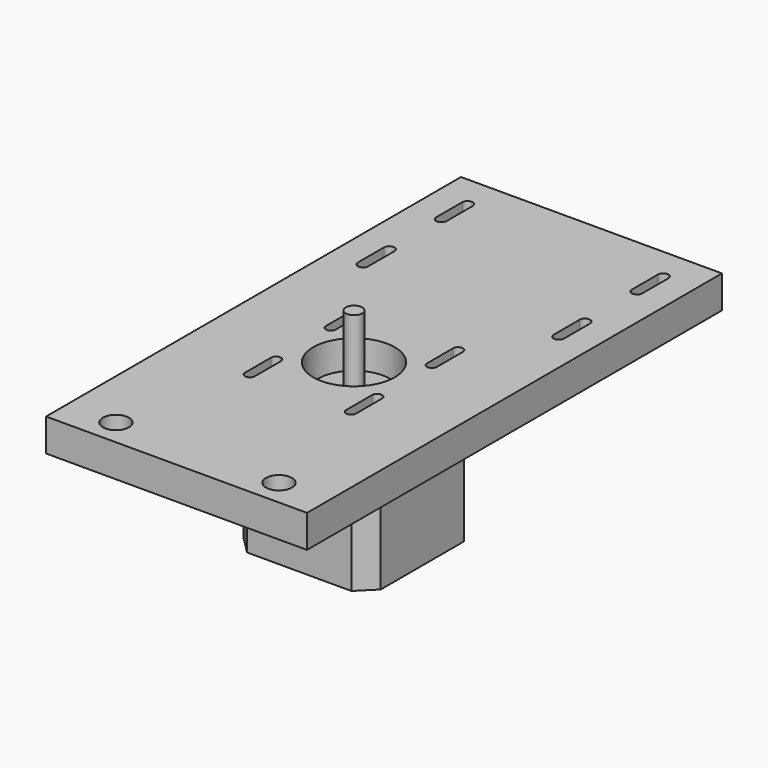
from build123d import *

# Parameters (mm, degrees)
F0_W      = 42
F0_H      = 42
F1_DEPTH  = 38
F2_SIZE   = 5
F3_R      = 11
F4_DEPTH  = 2
F5_R      = 2.5
F6_DEPTH  = 22
F7_R      = 1.5
F8_DEPTH  = 25
F9_W      = 80
F9_H      = 159
F9_R      = 4
F9_R_2    = 12.5
F10_DEPTH = 10


with BuildPart() as f1:
    # F0 (on Top) → F1 (new body)
    with BuildSketch(Plane.XY):
        with Locations((21, 21)):
            Rectangle(F0_W, F0_H)
    extrude(amount=F1_DEPTH)

    # F2
    f2_edges = [f1.edges().sort_by_distance(p)[0] for p in [
        (0, 0, 19),
        (0, 42, 19),
        (42, 0, 19),
        (42, 42, 19),
    ]]
    chamfer(f2_edges, length=F2_SIZE)

    # F3 (on face) → F4 (join)
    with BuildSketch(Plane.XY.offset(38)):
        with Locations((21, 21)):
            Circle(F3_R)
    extrude(amount=F4_DEPTH)

    # F5 (on face) → F6 (join)
    with BuildSketch(Plane.XY.offset(40)):
        with Locations((21, 21)):
            Circle(F5_R)
    extrude(amount=F6_DEPTH)

    # F7 (on face) → F8 (cut)
    with BuildSketch(Plane.XY.offset(38)):
        with Locations((5.5, 36.5)):
            Circle(F7_R)
        with Locations((5.5, 5.5)):
            Circle(F7_R)
        with Locations((36.5, 36.5)):
            Circle(F7_R)
        with Locations((36.5, 5.5)):
            Circle(F7_R)
    extrude(amount=-F8_DEPTH, mode=Mode.SUBTRACT)


with BuildPart() as f10:
    # F9 (on face) → F10 (new body)
    with BuildSketch(Plane.XY.offset(38)):
        with Locations((21, 32.5)):
            Rectangle(F9_W, F9_H)
        with Locations((-4, -39)):
            Circle(F9_R, mode=Mode.SUBTRACT)
        with BuildLine():
            ThreePointArc((7, 0.5), (5.5, -1), (4, 0.5))
            Line((4, 0.5), (4, 10.5))
            ThreePointArc((4, 10.5), (5.5, 12), (7, 10.5))
            Line((7, 10.5), (7, 0.5))
        make_face(mode=Mode.SUBTRACT)
        with Locations((46, -39)):
            Circle(F9_R, mode=Mode.SUBTRACT)
        with BuildLine():
            Line((38, 10.5), (38, 0.5))
            ThreePointArc((38, 0.5), (36.5, -1), (35, 0.5))
            Line((35, 0.5), (35, 10.5))
            ThreePointArc((35, 10.5), (36.5, 12), (38, 10.5))
        make_face(mode=Mode.SUBTRACT)
        with Locations((21, 21)):
            Circle(F9_R_2, mode=Mode.SUBTRACT)
        with BuildLine():
            ThreePointArc((-10.59, 72), (-9, 73.59), (-7.41, 72))
            Line((-7.41, 72), (-7.41, 62))
            ThreePointArc((-7.41, 62), (-9, 60.41), (-10.59, 62))
            Line((-10.59, 62), (-10.59, 72))
        make_face(mode=Mode.SUBTRACT)
        with BuildLine():
            Line((4, 31.5), (4, 41.5))
            ThreePointArc((4, 41.5), (5.5, 43), (7, 41.5))
            Line((7, 41.5), (7, 31.5))
            ThreePointArc((7, 31.5), (5.5, 30), (4, 31.5))
        make_face(mode=Mode.SUBTRACT)
        with BuildLine():
            Line((-10.59, 92), (-10.59, 102))
            ThreePointArc((-10.59, 102), (-9, 103.59), (-7.41, 102))
            Line((-7.41, 102), (-7.41, 92))
            ThreePointArc((-7.41, 92), (-9, 90.41), (-10.59, 92))
        make_face(mode=Mode.SUBTRACT)
        with BuildLine():
            Line((35, 31.5), (35, 41.5))
            ThreePointArc((35, 41.5), (36.5, 43), (38, 41.5))
            Line((38, 41.5), (38, 31.5))
            ThreePointArc((38, 31.5), (36.5, 30), (35, 31.5))
        make_face(mode=Mode.SUBTRACT)
        with BuildLine():
            ThreePointArc((49.41, 72), (51, 73.59), (52.59, 72))
            Line((52.59, 72), (52.59, 62))
            ThreePointArc((52.59, 62), (51, 60.41), (49.41, 62))
            Line((49.41, 62), (49.41, 72))
        make_face(mode=Mode.SUBTRACT)
        with BuildLine():
            ThreePointArc((49.41, 102), (51, 103.59), (52.59, 102))
            Line((52.59, 102), (52.59, 92))
            ThreePointArc((52.59, 92), (51, 90.41), (49.41, 92))
            Line((49.41, 92), (49.41, 102))
        make_face(mode=Mode.SUBTRACT)
    extrude(amount=F10_DEPTH)


solid = Compound([f1.part, f10.part])
